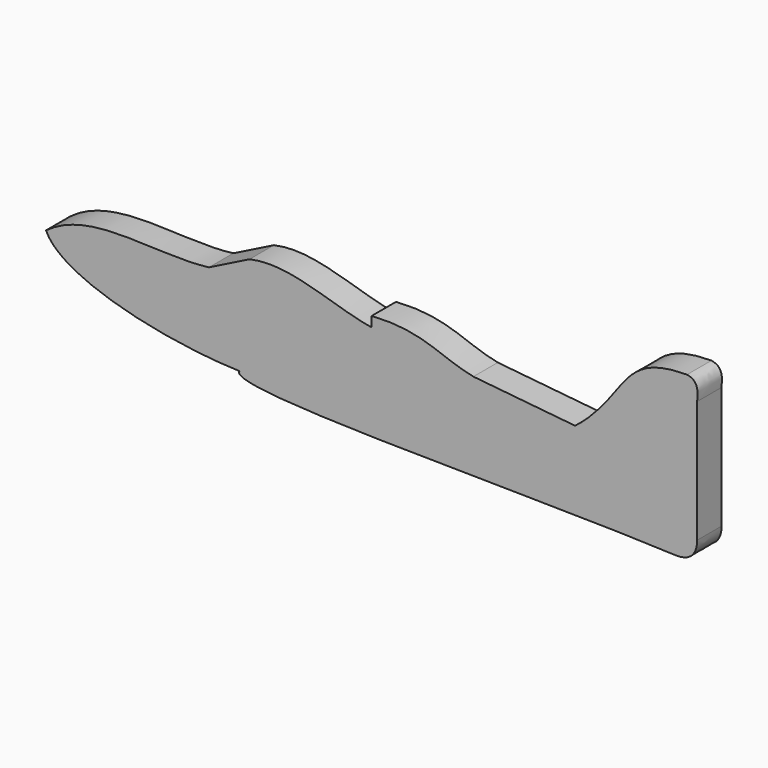
from build123d import *

# Parameters (mm, degrees)
F1_DEPTH = 19.05


with BuildPart() as f1:
    # F0 (on Front) → F1 (new body)
    with BuildSketch(Plane.XZ):
        with BuildLine():
            add(Edge.make_bspline(
                [(-203.2, 0), (-175.011158, 21.012219), (-135.466667, 8.466667), (-101.6, 12.7)],
                knots=[0, 0, 0, 0, 102.390673, 102.390673, 102.390673, 102.390673], degree=3))
            add(Edge.make_bspline(
                [(-203.2, 0), (-193.597674, -22.507101), (-128.455162, -36.779895), (-82.55, -38.1)],
                knots=[0, 0, 0, 0, 126.522854, 126.522854, 126.522854, 126.522854], degree=3))
            add(Edge.make_bspline(
                [(190.5, -50.8), (99.483333, -46.566667), (-90.760343, -50.8), (-82.55, -38.1)],
                knots=[0, 0, 0, 0, 273.345189, 273.345189, 273.345189, 273.345189], degree=3))
            add(Edge.make_bspline(
                [(203.2, -38.1), (203.11287, -45.563158), (199.453175, -50.686721), (190.5, -50.8)],
                knots=[0, 0, 0, 0, 17.960512, 17.960512, 17.960512, 17.960512], degree=3))
            Line((203.2, -38.1), (203.2, 38.1))
            add(Edge.make_bspline(
                [(203.2, 38.1), (203.478828, 42.635404), (204.576746, 49.588814), (196.85, 50.8)],
                knots=[0, 0, 0, 0, 14.199032, 14.199032, 14.199032, 14.199032], degree=3))
            add(Edge.make_bspline(
                [(196.85, 50.8), (153.912932, 50.8), (160.194486, 25.984986), (127, 0)],
                knots=[0, 0, 0, 0, 86.369338, 86.369338, 86.369338, 86.369338], degree=3))
            Line((127, 0), (63.5, 6.35))
            add(Edge.make_bspline(
                [(0, 19.05), (32.403201, 21.242376), (42.333333, 10.583333), (63.5, 6.35)],
                knots=[0, 0, 0, 0, 64.757548, 64.757548, 64.757548, 64.757548], degree=3))
            Line((0, 19.05), (0, 12.7))
            add(Edge.make_bspline(
                [(-76.2, 25.4), (-50.794795, 31.152328), (-25.4, 16.933333), (0, 12.7)],
                knots=[0, 0, 0, 0, 77.251084, 77.251084, 77.251084, 77.251084], degree=3))
            Line((-76.2, 25.4), (-101.6, 12.7))
        make_face()
    extrude(amount=F1_DEPTH)


solid = f1.part
